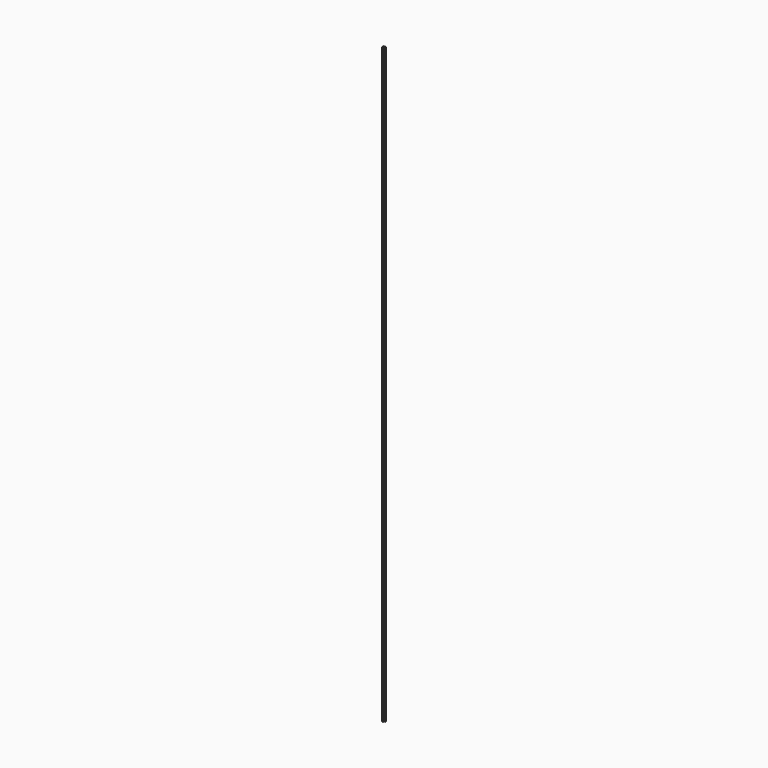
from build123d import *

# Parameters (mm, degrees)
F1_DEPTH = 4351.019746


with BuildPart() as f1:
    # F0 (on Top) → F1 (new body)
    with BuildSketch(Plane.XY):
        with BuildLine():
            Line((-61.406851, -9.676505), (-52.426595, -9.676505))
            ThreePointArc((-52.426595, -9.676505), (-49.796339, -3.326505), (-43.446339, -0.696249))
            Line((-43.446339, -0.696249), (-43.446339, 8.284007))
            Line((-43.446339, 8.284007), (-61.406851, 8.284007))
            Line((-61.406851, 8.284007), (-61.406851, -9.676505))
        make_face()
    extrude(amount=F1_DEPTH)


solid = f1.part
